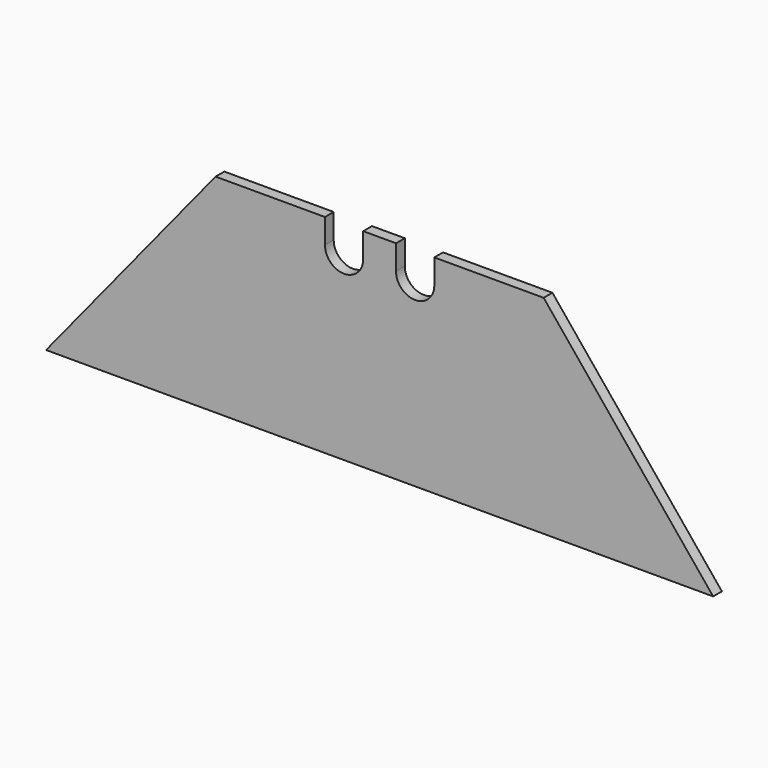
from build123d import *

# Parameters (mm, degrees)
F1_DEPTH = 1
F3_DEPTH = 25


with BuildPart() as f1:
    # F0 (on Front) → F1 (new body)
    with BuildSketch(Plane.XZ):
        Polygon((15.5, 19), (0, 0), (30.5, 0), (30.5, 19), align=None)
        Polygon((30.5, 19), (30.5, 0), (61, 0), (45.5, 19), align=None)
    extrude(amount=F1_DEPTH)

    # F2 (on face) → F3 (cut)
    with BuildSketch(Plane.XZ.offset(1)):
        with BuildLine():
            ThreePointArc((25.5, 16.75), (27.25, 15), (29, 16.75))
            ThreePointArc((29, 16.75), (27.25, 18.5), (25.5, 16.75))
        make_face()
        with BuildLine():
            ThreePointArc((35.5, 16.75), (33.75, 18.5), (32, 16.75))
            ThreePointArc((32, 16.75), (33.75, 15), (35.5, 16.75))
        make_face()
        with BuildLine():
            Line((35.5, 19), (32, 19))
            Line((32, 19), (32, 16.75))
            ThreePointArc((32, 16.75), (33.75, 18.5), (35.5, 16.75))
            Line((35.5, 16.75), (35.5, 19))
        make_face()
        with BuildLine():
            Line((29, 16.75), (29, 19))
            Line((29, 19), (25.5, 19))
            Line((25.5, 19), (25.5, 16.75))
            ThreePointArc((25.5, 16.75), (27.25, 18.5), (29, 16.75))
        make_face()
    extrude(amount=-F3_DEPTH, mode=Mode.SUBTRACT)


solid = f1.part
